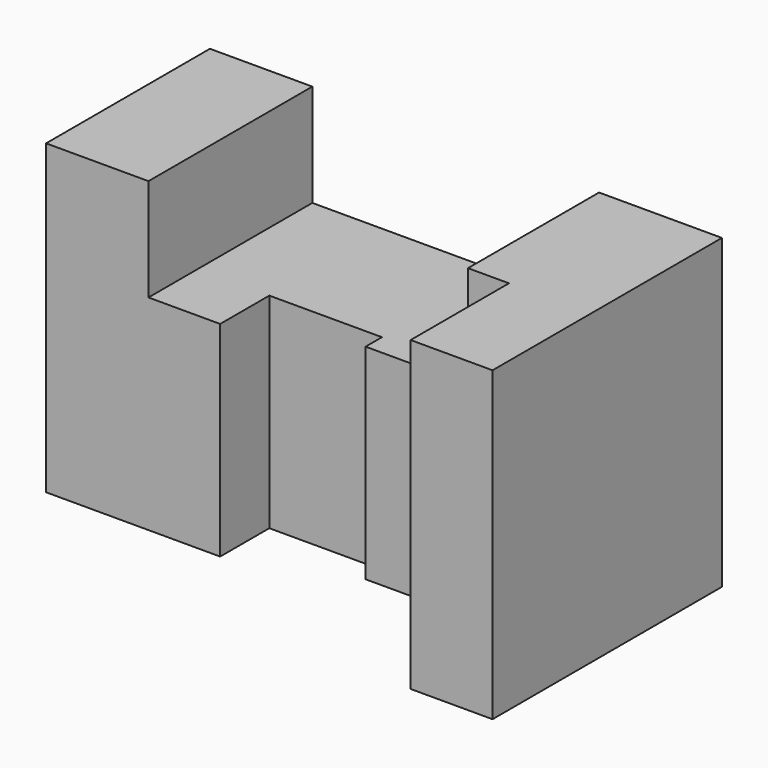
from build123d import *

# Parameters (mm, degrees)
F0_W     = 125
F0_H     = 75
F1_DEPTH = 70
F2_W     = 70
F2_H     = 25
F3_DEPTH = 70.001
F5_DEPTH = 75.001


with BuildPart() as f1:
    # F0 (on Front) → F1 (new body)
    with BuildSketch(Plane.XZ):
        with Locations((62.5, 37.5)):
            Rectangle(F0_W, F0_H)
    extrude(amount=-F1_DEPTH)

    # F2 (on face) → F3 (cut, through all)
    with BuildSketch(Plane.XZ):
        with Locations((60, 62.5)):
            Rectangle(F2_W, F2_H)
    extrude(amount=-F3_DEPTH, mode=Mode.SUBTRACT)

    # F4 (on face) → F5 (cut, through all)
    with BuildSketch(Plane.XY.offset(75)):
        Polygon((0, 0), (105, 0), (105, 30), (70, 30), (70, 35), (42.5, 35), (42.5, 20), (0, 20), align=None)
    extrude(amount=-F5_DEPTH, mode=Mode.SUBTRACT)


solid = f1.part
